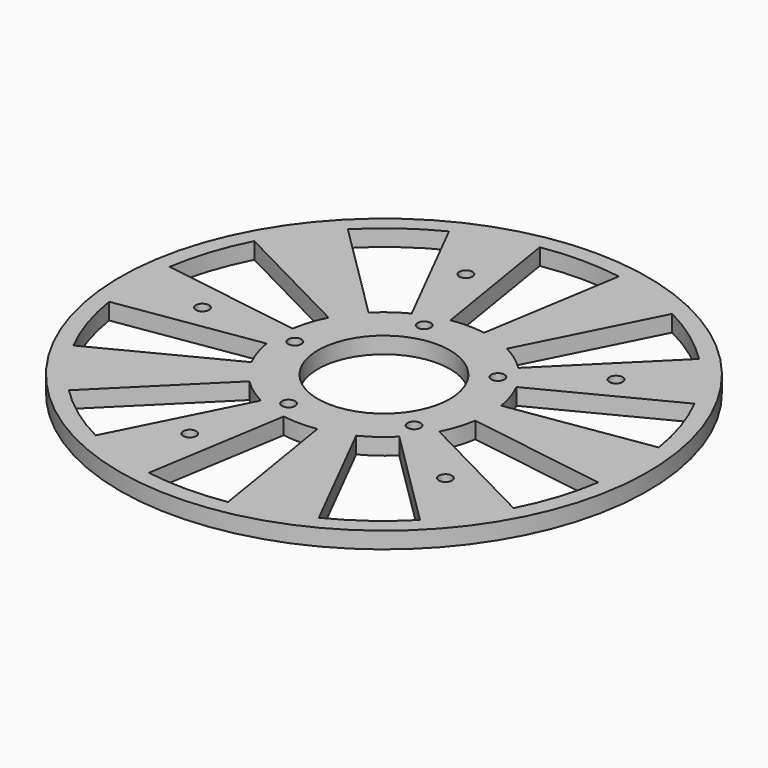
from build123d import *

# Parameters (mm, degrees)
SKETCH013_R           = 115.500293
SKETCH013_R_2         = 80
PAD007_DEPTH          = 7.5
SKETCH012_W           = 210.232956
SKETCH012_H           = 209.330689
PAD006_DEPTH          = 25
SKETCH_R              = 100
SKETCH_R_2            = 20
PAD_DEPTH             = 5
POCKET_DEPTH          = 570.774806
POLARPATTERN_COUNT    = 10
SKETCH002_R           = 100
SKETCH002_R_2         = 91.942135
PAD001_DEPTH          = 2
PAD001_DEPTH_BACK     = -5
SKETCH006_R           = 32
SKETCH006_R_2         = 20
PAD003_DEPTH          = 5
SKETCH007_R           = 25
SKETCH007_R_2         = 20
PAD004_DEPTH          = 20
PAD005_DEPTH          = 20
POLARPATTERN002_COUNT = 5
SKETCH004_R           = 60
SKETCH004_R_2         = 50
PAD002_DEPTH          = 20
POCKET001_DEPTH       = 20
POLARPATTERN001_COUNT = 10
SKETCH009_R           = 2
POCKET002_DEPTH       = 592.891835
POLARPATTERN003_COUNT = 5
SKETCH010_R           = 4
POCKET003_DEPTH       = 2
POLARPATTERN004_COUNT = 5
SKETCH011_R           = 0.8
POCKET004_DEPTH       = 23
SKETCH014_R           = 80
SKETCH014_R_2         = 75
PAD008_DEPTH          = 5


with BuildPart() as pad007:
    # Sketch013 → Pad007 (new body, symmetric)
    with BuildSketch(Plane.XY):
        Circle(SKETCH013_R)
        Circle(SKETCH013_R_2, mode=Mode.SUBTRACT)
    extrude(amount=PAD007_DEPTH, both=True)


with BuildPart() as pad006:
    # Sketch012 → Pad006 (new body)
    with BuildSketch(Plane.XY.offset(5)):
        with Locations((0, -1.353431)):
            Rectangle(SKETCH012_W, SKETCH012_H)
    extrude(amount=PAD006_DEPTH)


with BuildPart() as polarpattern002:
    # Sketch → Pad (new body)
    with BuildSketch(Plane.XY):
        Circle(SKETCH_R)
        Circle(SKETCH_R_2, mode=Mode.SUBTRACT)
    extrude(amount=PAD_DEPTH)

    # Sketch001 → Pocket (cut, through all)
    with BuildSketch(Plane.XY.offset(5)):
        Polygon((-15, 92.600609), (15, 92.600609), (5, 30.949027), (-5, 30.949027), align=None)
    pocket = extrude(amount=-POCKET_DEPTH, mode=Mode.SUBTRACT)

    # PolarPattern: Pocket ×10 about axis
    polarpattern_axis = Axis((0, 0, 5), (0, 0, 1))
    for i in range(1, POLARPATTERN_COUNT):
        add(pocket.rotate(polarpattern_axis, i * 360 / POLARPATTERN_COUNT), mode=Mode.SUBTRACT)

    # Sketch002 → Pad001 (new body, two sides)
    with BuildSketch(Plane.XY.offset(5)) as pad001_sk:
        Circle(SKETCH002_R)
        Circle(SKETCH002_R_2, mode=Mode.SUBTRACT)
    extrude(amount=-PAD001_DEPTH)
    extrude(pad001_sk.sketch, amount=-PAD001_DEPTH_BACK)

    # Sketch006 → Pad003 (new body)
    with BuildSketch(Plane.XY.offset(5)):
        Circle(SKETCH006_R)
        Circle(SKETCH006_R_2, mode=Mode.SUBTRACT)
    extrude(amount=-PAD003_DEPTH)

    # Sketch007 → Pad004 (new body)
    with BuildSketch(Plane.XY.offset(5)):
        Circle(SKETCH007_R)
        Circle(SKETCH007_R_2, mode=Mode.SUBTRACT)
    extrude(amount=PAD004_DEPTH)

    # Sketch008 → Pad005 (new body)
    with BuildSketch(Plane.XY.offset(5)):
        Polygon((-31.540556, 4.944839), (-31.540556, -4.944839), (-23.570738, -4.027653), (-23.570738, 4.027653), align=None)
    pad005 = extrude(amount=PAD005_DEPTH)

    # PolarPattern002: Pad005 ×5 about axis
    polarpattern002_axis = Axis((0, 0, 5), (0, 0, 1))
    for i in range(1, POLARPATTERN002_COUNT):
        add(pad005.rotate(polarpattern002_axis, i * 360 / POLARPATTERN002_COUNT))


with BuildPart() as pad008:
    # Sketch004 → Pad002 (new body)
    with BuildSketch(Plane.XY.offset(5)):
        Circle(SKETCH004_R)
        Circle(SKETCH004_R_2, mode=Mode.SUBTRACT)
    extrude(amount=PAD002_DEPTH)

    # Sketch005 → Pocket001 (cut)
    with BuildSketch(Plane.XY.offset(25)):
        Polygon((-10.833439, 67.068352), (-7.538386, 47.120113), (7.581675, 47.120113), (10.720038, 66.055313), align=None)
    pocket001 = extrude(amount=-POCKET001_DEPTH, mode=Mode.SUBTRACT)

    # PolarPattern001: Pocket001 ×10 about axis
    polarpattern001_axis = Axis((0, 0, 25), (0, 0, 1))
    for i in range(1, POLARPATTERN001_COUNT):
        add(pocket001.rotate(polarpattern001_axis, i * 360 / POLARPATTERN001_COUNT), mode=Mode.SUBTRACT)

    # Fusion: union PolarPattern002
    add(polarpattern002.part)

    # Sketch009 → Pocket002 (cut, through all)
    with BuildSketch(Plane.XY.offset(25)):
        with Locations((-55, 0)):
            Circle(SKETCH009_R)
        with Locations((-27, 0)):
            Circle(SKETCH009_R)
    pocket002 = extrude(amount=-POCKET002_DEPTH, mode=Mode.SUBTRACT)

    # PolarPattern003: Pocket002 ×5 about axis
    polarpattern003_axis = Axis((0, 0, 25), (0, 0, 1))
    for i in range(1, POLARPATTERN003_COUNT):
        add(pocket002.rotate(polarpattern003_axis, i * 360 / POLARPATTERN003_COUNT), mode=Mode.SUBTRACT)

    # Sketch010 → Pocket003 (cut)
    with BuildSketch(Plane(origin=(0, 0, 0), x_dir=(1, 0, 0), z_dir=(0, 0, -1))):
        with Locations((-55, 0)):
            Circle(SKETCH010_R)
        with Locations((-27, 0)):
            Circle(SKETCH010_R)
    pocket003 = extrude(amount=-POCKET003_DEPTH, mode=Mode.SUBTRACT)

    # PolarPattern004: Pocket003 ×5 about axis
    polarpattern004_axis = Axis((0, 0, 0), (0, 0, -1))
    for i in range(1, POLARPATTERN004_COUNT):
        add(pocket003.rotate(polarpattern004_axis, i * 360 / POLARPATTERN004_COUNT), mode=Mode.SUBTRACT)

    # Sketch011 → Pocket004 (cut)
    with BuildSketch(Plane(origin=(1.280519, 0.259015, 0), x_dir=(-0.198259, 0.98015, 0), z_dir=(0.98015, 0.198259, 0))):
        with Locations((-56.007513, 9.826002)):
            Circle(SKETCH011_R)
    extrude(amount=-POCKET004_DEPTH, mode=Mode.SUBTRACT)

    # Cut: cut Pad006
    add(pad006.part, mode=Mode.SUBTRACT)

    # Cut001: cut Pad007
    add(pad007.part, mode=Mode.SUBTRACT)

    # Sketch014 → Pad008 (new body)
    with BuildSketch(Plane.XY.offset(5)):
        Circle(SKETCH014_R)
        Circle(SKETCH014_R_2, mode=Mode.SUBTRACT)
    extrude(amount=-PAD008_DEPTH)


solid = pad008.part
